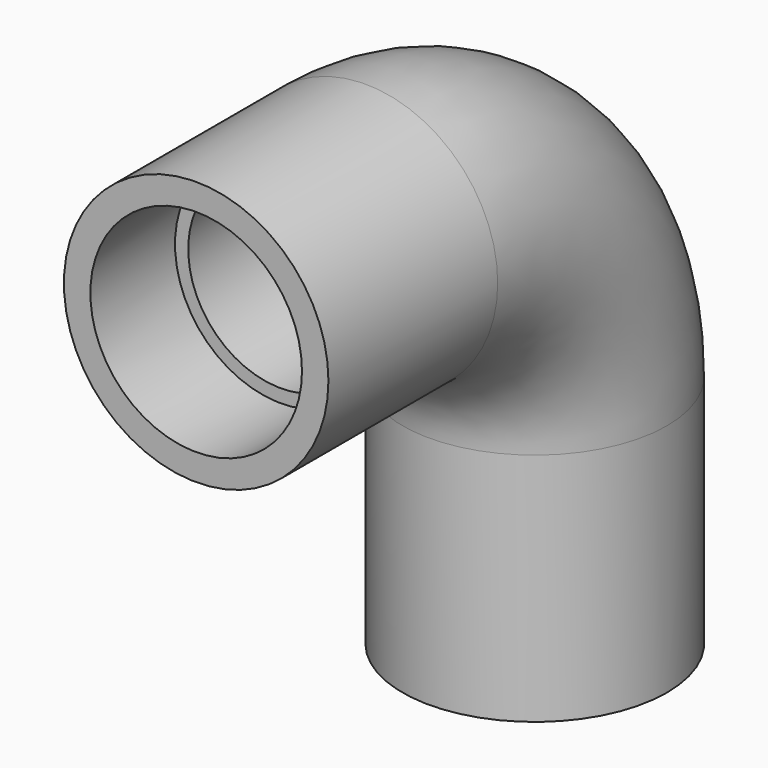
from build123d import *

# Parameters (mm, degrees)
F0_R     = 15.875
F0_R_2   = 11.1125
F3_R     = 12.7
F4_DEPTH = 12.7
F5_R     = 12.7
F6_DEPTH = 12.7


with BuildPart() as f2:
    # F2: sweep along a path in F1
    with BuildLine(Plane.YZ) as f2_path:
        Line((0, 0), (25.4, 0))
        ThreePointArc((25.4, 0), (43.3605122421, -7.4394877579), (50.8, -25.4))
        Line((50.8, -25.4), (50.8, -53.591504693))
    # F0 (on Front) → F2 (sweep)
    with BuildSketch(Plane.XZ):
        Circle(F0_R)
        Circle(F0_R_2, mode=Mode.SUBTRACT)
    sweep(path=f2_path.line)

    # F3 (on Front) → F4 (cut)
    with BuildSketch(Plane.XZ):
        Circle(F3_R)
    extrude(amount=-F4_DEPTH, mode=Mode.SUBTRACT)

    # F5 (on face) → F6 (cut)
    with BuildSketch(Plane(origin=(0, 0, -53.591504693), x_dir=(1, 0, 0), z_dir=(0, 0, -1))):
        with Locations((0, -50.8)):
            Circle(F5_R)
    extrude(amount=-F6_DEPTH, mode=Mode.SUBTRACT)


solid = f2.part
